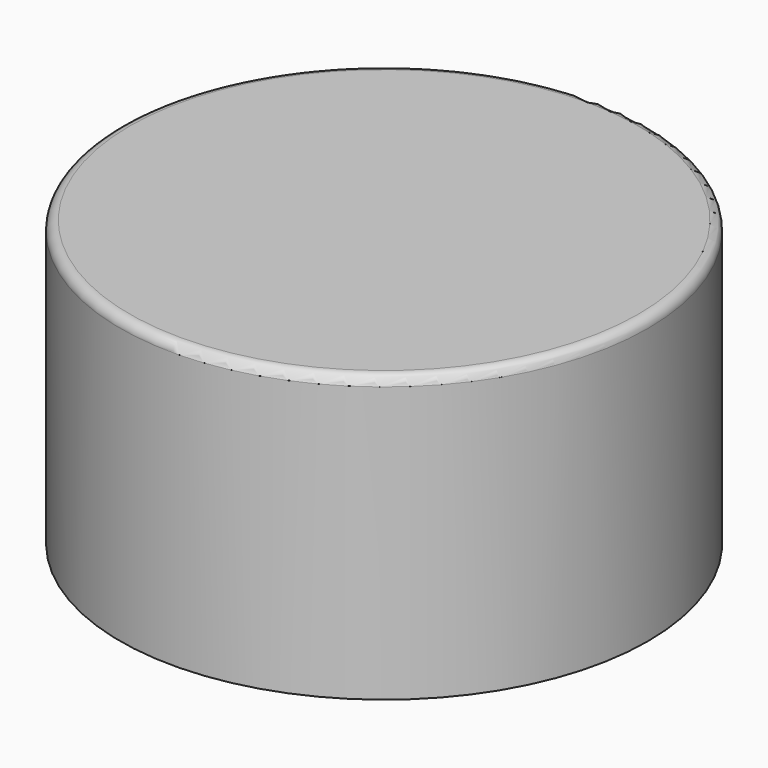
from build123d import *

# Parameters (mm, degrees)
CYLINDER004_R     = 1.7
CYLINDER004_DEPTH = 6.5
CYLINDER002_R     = 3
CYLINDER002_DEPTH = 6.5
CYLINDER_R        = 26.5
CYLINDER_DEPTH    = 30
CYLINDER001_R     = 27.8
CYLINDER001_DEPTH = 30
CYLINDER005_R     = 1.7
CYLINDER005_DEPTH = 6.5
CYLINDER003_R     = 3
CYLINDER003_DEPTH = 6.5
CHAMFER_SIZE      = 1
FILLET_R          = 1


with BuildPart() as obj1:
    # Cylinder004 → Cylinder004 (new body)
    with BuildSketch(Plane(origin=(2.2, 8, -3.4), x_dir=(1, 0, 0), z_dir=(0, 0, 1))):
        Circle(CYLINDER004_R)
    extrude(amount=CYLINDER004_DEPTH)


with BuildPart() as cut001:
    # Cylinder002 → Cylinder002 (new body)
    with BuildSketch(Plane(origin=(2.2, 8, -2.8), x_dir=(1, 0, 0), z_dir=(0, 0, 1))):
        Circle(CYLINDER002_R)
    extrude(amount=CYLINDER002_DEPTH)

    # Cut001: cut obj1
    add(obj1.part, mode=Mode.SUBTRACT)


with BuildPart() as cut001_1:
    # Cut001 placement: moved
    add(cut001.part.moved(Location((0, 0, 16))))


with BuildPart() as base_exterior_vaciado:
    # Cylinder → Cylinder (new body)
    with BuildSketch(Plane(origin=(-12.5, 19, -10.6), x_dir=(1, 0, 0), z_dir=(0, 0, 1))):
        Circle(CYLINDER_R)
    extrude(amount=CYLINDER_DEPTH)


with BuildPart() as cut:
    # Cylinder001 → Cylinder001 (new body)
    with BuildSketch(Plane(origin=(-12.5, 19, -10), x_dir=(1, 0, 0), z_dir=(0, 0, 1))):
        Circle(CYLINDER001_R)
    extrude(amount=CYLINDER001_DEPTH)

    # Cut: cut base exterior vaciado
    add(base_exterior_vaciado.part, mode=Mode.SUBTRACT)


with BuildPart() as obj2:
    # Cylinder005 → Cylinder005 (new body)
    with BuildSketch(Plane(origin=(-29.1, 29.1, -3.4), x_dir=(1, 0, 0), z_dir=(0, 0, 1))):
        Circle(CYLINDER005_R)
    extrude(amount=CYLINDER005_DEPTH)


with BuildPart() as obj3:
    # Cylinder003 → Cylinder003 (new body)
    with BuildSketch(Plane(origin=(-29.1, 29.1, -2.8), x_dir=(1, 0, 0), z_dir=(0, 0, 1))):
        Circle(CYLINDER003_R)
    extrude(amount=CYLINDER003_DEPTH)

    # Cut002: cut obj2
    add(obj2.part, mode=Mode.SUBTRACT)


with BuildPart() as obj3_1:
    # Cut002 placement: moved
    add(obj3.part.moved(Location((0, 0, 16))))

    # Fusion: union Cut001, Cut
    add(cut001_1.part)
    add(cut.part)

    # Chamfer
    chamfer_edges = [obj3_1.edges().sort_by_distance(p)[0] for p in [
        (-32.1, 29.1, 19.4),
        (-39, 19, 19.4),
        (-0.8, 8, 19.4),
    ]]
    chamfer(chamfer_edges, length=CHAMFER_SIZE)

    # Fillet
    fillet_edges = [obj3_1.edges().sort_by_distance(p)[0] for p in [
        (-40.3, 19, 20),
    ]]
    fillet(fillet_edges, radius=FILLET_R)


solid = obj3_1.part
